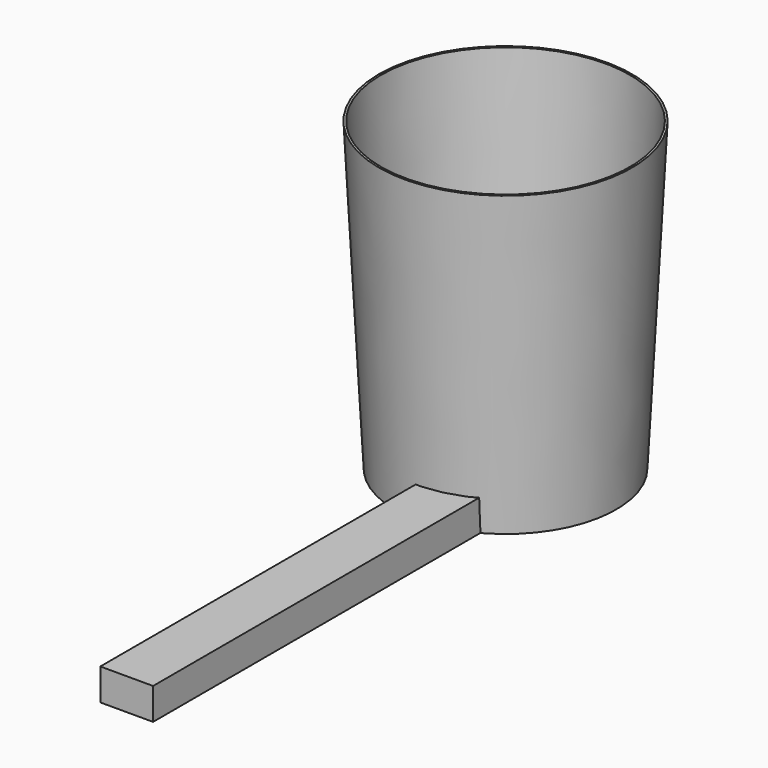
from build123d import *

# Parameters (mm, degrees)
F2_T     = -2.54
F3_W     = 63.5
F3_H     = 38.1
F4_DEPTH = 609.6


with BuildPart() as f1:
    # F0 (on Front) → F1 (revolve)
    with BuildSketch(Plane.XZ):
        Polygon((-133.35, 0), (0, 0), (0, 368.3), (-152.4, 368.3), align=None)
    revolve(axis=Axis((0, 0, 184.15), (0, 0, 1)))

    # F2
    f2_openings = [f1.faces().sort_by_distance(p)[0] for p in [
        (0, 0, 368.3),
    ]]
    offset(amount=F2_T, openings=f2_openings)


with BuildPart() as f4:
    # F3 (on Front) → F4 (new body)
    with BuildSketch(Plane.XZ):
        with Locations((31.75, 19.05)):
            Rectangle(F3_W, F3_H)
    extrude(amount=F4_DEPTH)


solid = Compound([f1.part, f4.part])
